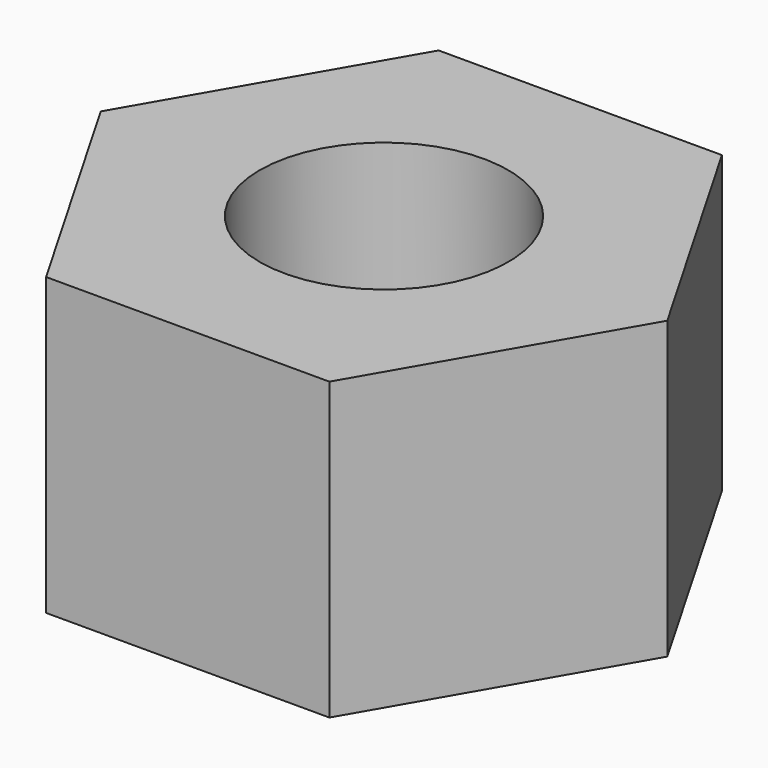
from build123d import *

# Parameters (mm, degrees)
F1_DEPTH = 5.7404
F2_D     = 4.826


with BuildPart() as f1:
    # F0 (on Top) → F1 (new body)
    with BuildSketch(Plane.XY):
        Polygon((5.499261, 0), (2.749631, 4.7625), (-2.749631, 4.7625), (-5.499261, 0), (-2.749631, -4.7625), (2.749631, -4.7625), align=None)
    extrude(amount=F1_DEPTH)

    # F2 (through all)
    with Locations(Plane(origin=(0, 0, 0), x_dir=(1, 0, 0), z_dir=(0, 0, -1))):
        with Locations((0, 0)):
            Hole(F2_D / 2)


solid = f1.part
